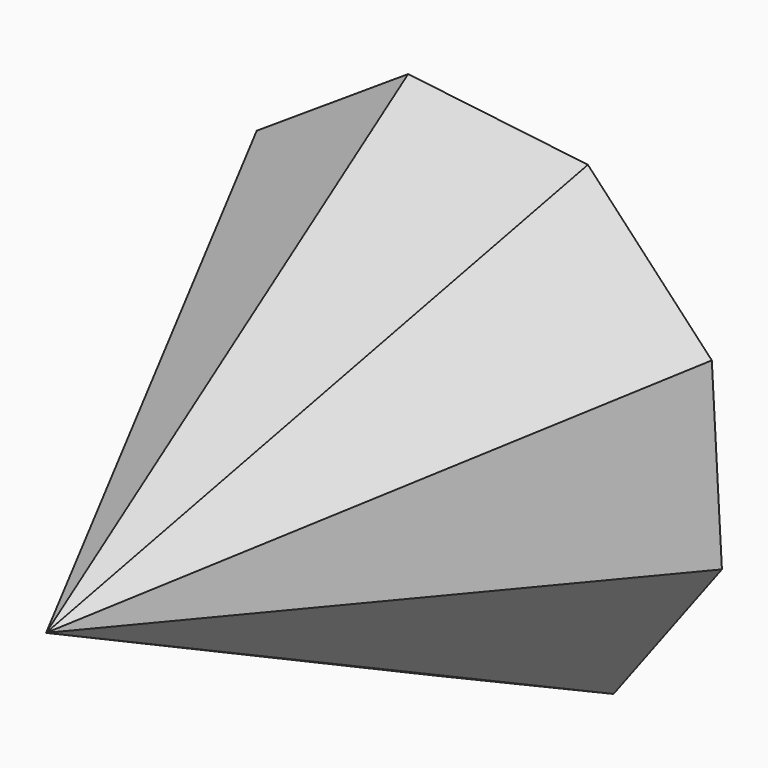
from build123d import *


with BuildPart() as f3:
    # F0 (on Front) → F3 section 0
    with BuildSketch(Plane.XZ, mode=Mode.PRIVATE) as f3_s0:
        Polygon((-55.016788, -3.08246), (-40.163938, -37.725411), (-6.517934, -54.716223), (30.177883, -46.104706), (52.753134, -15.920285), (50.644607, 21.713415), (24.838906, 49.187166), (-12.589196, 53.645696), (-44.126672, 33.002809), align=None)
    loft([f3_s0.sketch, Vertex(0, -110, 0)])


solid = f3.part
